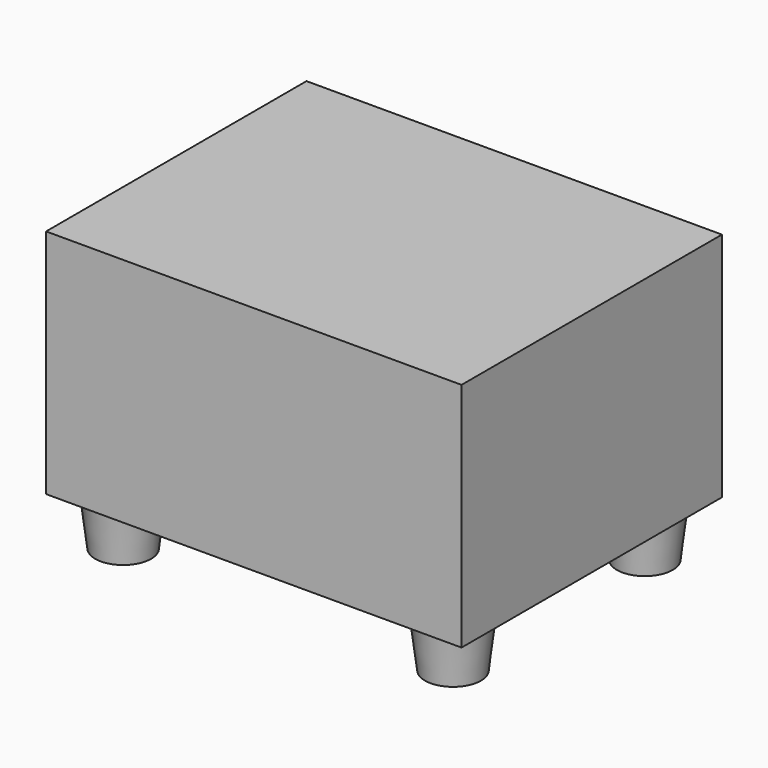
from build123d import *

# Parameters (mm, degrees)
F0_W     = 307.975
F0_H     = 171.45
F1_DEPTH = 241.3
F2_R     = 25.4
F3_DEPTH = 38.1
F3_TAPER = 7


with BuildPart() as f1:
    # F0 (on Front) → F1 (new body)
    with BuildSketch(Plane.XZ):
        with Locations((153.9875, 85.725)):
            Rectangle(F0_W, F0_H)
    extrude(amount=F1_DEPTH)

    # F2 (on face) → F3 (join)
    with BuildSketch(Plane(origin=(0, 0, 0), x_dir=(1, 0, 0), z_dir=(0, 0, -1))):
        with Locations((31.75, 209.55)):
            Circle(F2_R)
        with Locations((276.225, 209.55)):
            Circle(F2_R)
        with Locations((276.225, 31.75)):
            Circle(F2_R)
        with Locations((31.75, 31.75)):
            Circle(F2_R)
    extrude(amount=F3_DEPTH, taper=F3_TAPER)


solid = f1.part
